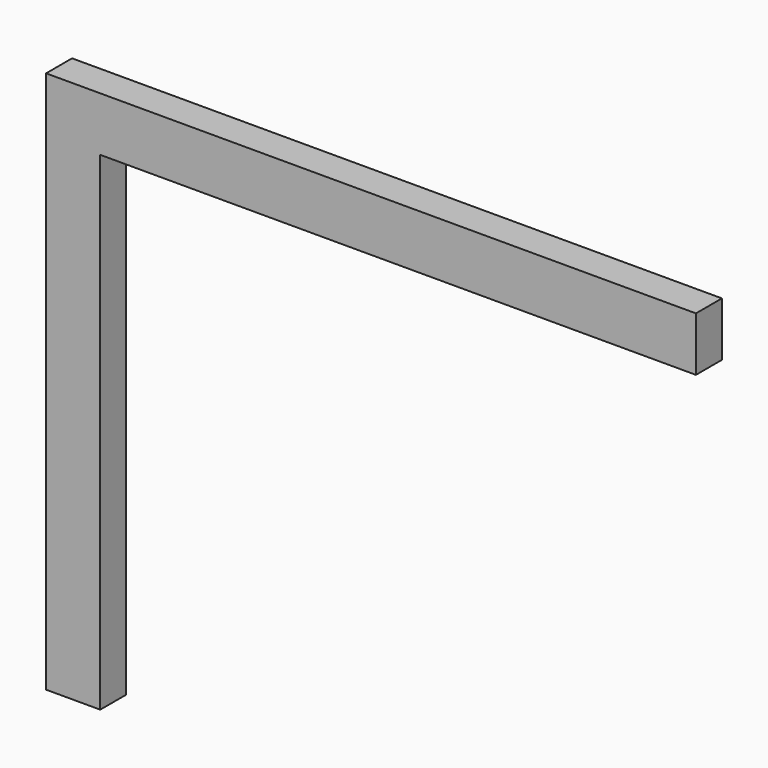
from build123d import *

# Parameters (mm, degrees)
F0_W     = 50
F0_H     = 50
F0_W_2   = 550
F0_H_2   = 451
F1_DEPTH = 30


with BuildPart() as f1:
    # F0 (on Front) → F1 (new body)
    with BuildSketch(Plane.XZ):
        with Locations((25, -25)):
            Rectangle(F0_W, F0_H)
        with Locations((325, -25)):
            Rectangle(F0_W_2, F0_H)
        with Locations((25, -275.5)):
            Rectangle(F0_W, F0_H_2)
    extrude(amount=F1_DEPTH)


solid = f1.part
